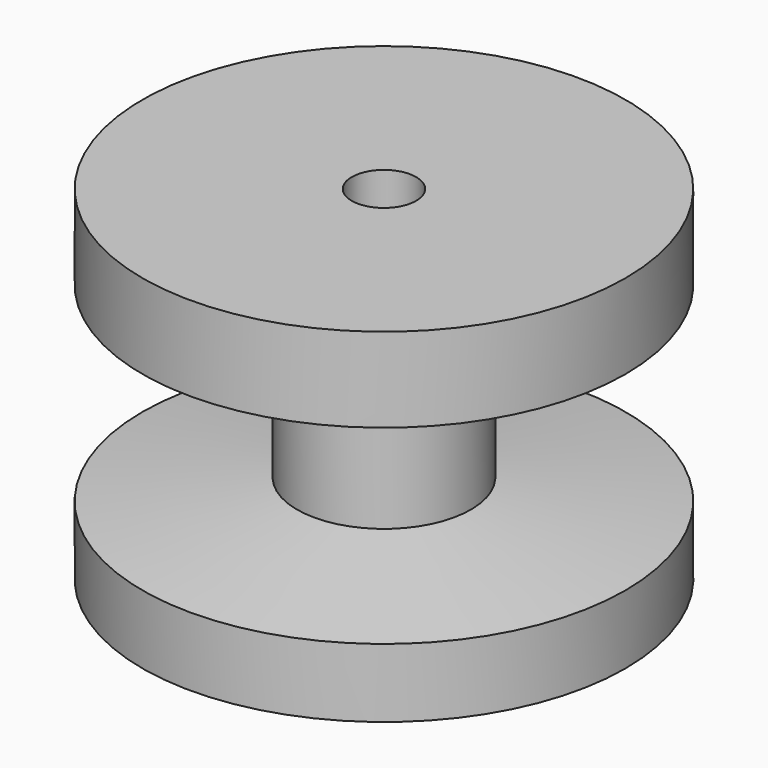
from build123d import *

# Parameters (mm, degrees)
F0_R     = 7.5
F1_DEPTH = 10.668
F5_D     = 2


with BuildPart() as f1:
    # F0 (on Top) → F1 (new body)
    with BuildSketch(Plane.XY):
        Circle(F0_R)
    extrude(amount=F1_DEPTH)

    # F2 (on Right) → F3 (revolve, cut)
    with BuildSketch(Plane.YZ):
        with BuildLine():
            Line((-11.611987, 8.67579), (-11.611987, 7.502463))
            ThreePointArc((-11.611987, 7.502463), (-13.319947, 5.118554), (-11.587891, 2.752094))
            Line((-11.587891, 2.752094), (-11.587891, 1.583694))
            Line((-11.587891, 1.583694), (-2.7, 2.780473))
            Line((-2.7, 2.780473), (-2.7, 7.307734))
            Line((-2.7, 7.307734), (-11.611987, 8.67579))
        make_face()
    revolve(axis=Axis((0, 0, 0), (0, 0, -1)), mode=Mode.SUBTRACT)

    # F5 (through all)
    with Locations(Plane.XY.offset(10.668)):
        with Locations((0, 0)):
            Hole(F5_D / 2)


solid = f1.part
